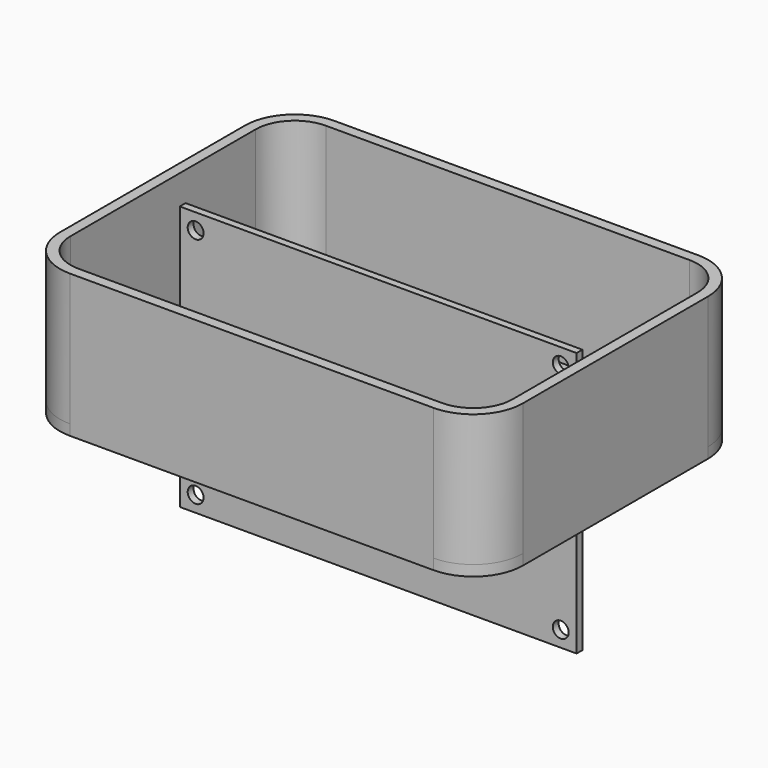
from build123d import *

# Parameters (mm, degrees)
F0_W     = 76.2
F0_H     = 50.8
F0_R     = 1.524
F1_DEPTH = 1.397
F2_W     = 88.9
F2_H     = 63.5
F3_DEPTH = 2.032
F4_R     = 9.525
F6_DEPTH = 25.4


with BuildPart() as f1:
    # F0 (on Front) → F1 (new body)
    with BuildSketch(Plane.XZ):
        Rectangle(F0_W, F0_H)
        with Locations((-35.052, -22.352)):
            Circle(F0_R, mode=Mode.SUBTRACT)
        with Locations((35.052, -22.352)):
            Circle(F0_R, mode=Mode.SUBTRACT)
        with Locations((-35.052, 22.352)):
            Circle(F0_R, mode=Mode.SUBTRACT)
        with Locations((35.052, 22.352)):
            Circle(F0_R, mode=Mode.SUBTRACT)
    extrude(amount=F1_DEPTH)


with BuildPart() as f3:
    # F2 (on Top) → F3 (new body)
    with BuildSketch(Plane.XY):
        Rectangle(F2_W, F2_H)
    extrude(amount=F3_DEPTH)

    # F4
    f4_edges = [f3.edges().sort_by_distance(p)[0] for p in [
        (-44.45, -31.75, 1.016),
        (44.45, -31.75, 1.016),
        (-44.45, 31.75, 1.016),
        (44.45, 31.75, 1.016),
    ]]
    fillet(f4_edges, radius=F4_R)

    # F5 (on face) → F6 (join)
    with BuildSketch(Plane.XY.offset(2.032)):
        with BuildLine():
            Line((34.925, 31.75), (-34.925, 31.75))
            ThreePointArc((-34.925, 31.75), (-41.660192, 28.960192), (-44.45, 22.225))
            Line((-44.45, 22.225), (-44.45, -22.225))
            ThreePointArc((-44.45, -22.225), (-41.660192, -28.960192), (-34.925, -31.75))
            Line((-34.925, -31.75), (34.925, -31.75))
            ThreePointArc((34.925, -31.75), (41.660192, -28.960192), (44.45, -22.225))
            Line((44.45, -22.225), (44.45, 22.225))
            ThreePointArc((44.45, 22.225), (41.660192, 28.960192), (34.925, 31.75))
        make_face()
        with BuildLine():
            ThreePointArc((-42.418, 22.225), (-40.223351, 27.523351), (-34.925, 29.718))
            Line((-34.925, 29.718), (34.925, 29.718))
            ThreePointArc((34.925, 29.718), (40.223351, 27.523351), (42.418, 22.225))
            Line((42.418, 22.225), (42.418, -22.225))
            ThreePointArc((42.418, -22.225), (40.223351, -27.523351), (34.925, -29.718))
            Line((34.925, -29.718), (-34.925, -29.718))
            ThreePointArc((-34.925, -29.718), (-40.223351, -27.523351), (-42.418, -22.225))
            Line((-42.418, -22.225), (-42.418, 22.225))
        make_face(mode=Mode.SUBTRACT)
    extrude(amount=F6_DEPTH)


solid = Compound([f1.part, f3.part])
